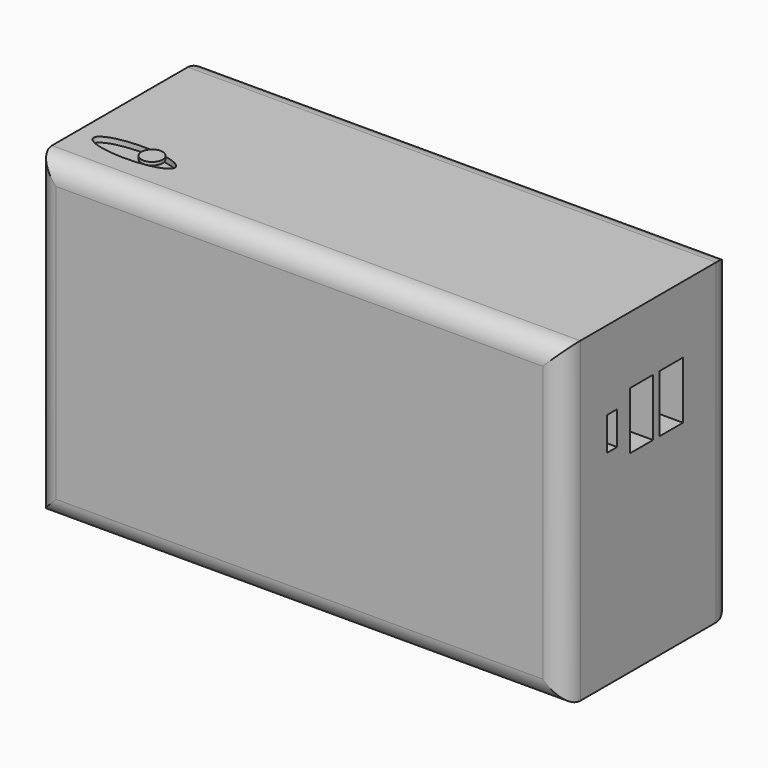
from build123d import *

# Parameters (mm, degrees)
F0_W      = 127
F0_H      = 76.2
F1_DEPTH  = 50.8
F2_R      = 5
F3_W      = 7
F3_H      = 13.8
F4_DEPTH  = 16.4
F5_W      = 7
F5_H      = 13.8
F6_DEPTH  = 16.4
F7_W      = 3
F7_H      = 8
F8_DEPTH  = 14.4
F9_R      = 7.752085
F10_DEPTH = 15.5
F11_R     = 3.646977
F12_DEPTH = 2.032
F14_DEPTH = 1.27
F15_R     = 2.545148
F16_DEPTH = 0.762
F18_DEPTH = 3.302
F19_W     = 34.536691
F19_H     = 3.45367
F20_DEPTH = 16.4
F21_W     = 10.936618
F21_H     = 2.302445
F21_W_2   = 11.224423
F22_DEPTH = 2.794
F23_W     = 24.175685
F23_H     = 3.453668
F24_DEPTH = 1.27


with BuildPart() as f1:
    # F0 (on Front) → F1 (new body)
    with BuildSketch(Plane.XZ):
        Rectangle(F0_W, F0_H)
    extrude(amount=F1_DEPTH)

    # F2
    f2_edges = [f1.edges().sort_by_distance(p)[0] for p in [
        (0, -50.8, -38.1),
        (0, 0, -38.1),
        (63.5, 0, 0),
        (0, 0, 38.1),
        (-63.5, 0, 0),
        (0, -50.8, 38.1),
        (63.5, -50.8, 0),
        (-63.5, -50.8, 0),
    ]]
    fillet(f2_edges, radius=F2_R)

    # F3 (on face) → F4 (cut)
    with BuildSketch(Plane.YZ.offset(63.5)):
        with Locations((-27.439119, 15.102464)):
            Rectangle(F3_W, F3_H)
    extrude(amount=-F4_DEPTH, mode=Mode.SUBTRACT)

    # F5 (on face) → F6 (cut)
    with BuildSketch(Plane.YZ.offset(63.5)):
        with Locations((-18.430447, 15.102464)):
            Rectangle(F5_W, F5_H)
    extrude(amount=-F6_DEPTH, mode=Mode.SUBTRACT)

    # F7 (on face) → F8 (cut)
    with BuildSketch(Plane.YZ.offset(63.5)):
        with Locations((-36.227684, 15.109803)):
            Rectangle(F7_W, F7_H)
    extrude(amount=-F8_DEPTH, mode=Mode.SUBTRACT)

    # F9 (on face) → F10 (cut)
    with BuildSketch(Plane(origin=(-63.5, 0, 0), x_dir=(0, -1, 0), z_dir=(-1, 0, 0))):
        with Locations((35.727076, 26.897665)):
            Circle(F9_R)
        with Locations((35.727076, 26.897665)):
            Circle(F9_R)
    extrude(amount=-F10_DEPTH, mode=Mode.SUBTRACT)

    # F11 (on face) → F12 (join)
    with BuildSketch(Plane(origin=(-48, 0, 0), x_dir=(0, -1, 0), z_dir=(-1, 0, 0))):
        with Locations((35.727076, 26.897665)):
            Circle(F11_R)
    extrude(amount=F12_DEPTH)

    # F13 (on face) → F14 (cut)
    with BuildSketch(Plane.XY.offset(38.1)):
        with BuildLine():
            add(Edge.make_bspline(
                [(-39.842725, -38.383145), (-39.842725, -33.343195), (-54.51994, -35.86317), (-69.197156, -38.383145), (-54.51994, -40.90312), (-39.842725, -43.423094), (-39.842725, -38.383145)],
                knots=[0, 0, 0, 2.094395, 2.094395, 4.18879, 4.18879, 6.283185, 6.283185, 6.283185], degree=2, weights=[1, 0.5, 1, 0.5, 1, 0.5, 1]))
        make_face()
    extrude(amount=-F14_DEPTH, mode=Mode.SUBTRACT)

    # F17 (on face) → F18 (join)
    with BuildSketch(Plane(origin=(0, 0, 0), x_dir=(-1, 0, 0), z_dir=(0, 1, 0))):
        with BuildLine():
            add(Edge.make_bspline(
                [(-33.716403, 26.681565), (-33.716403, 33.418071), (-47.175102, 30.049818), (-60.633801, 26.681565), (-47.175102, 23.313312), (-33.716403, 19.945059), (-33.716403, 26.681565)],
                knots=[0, 0, 0, 2.094395, 2.094395, 4.18879, 4.18879, 6.283185, 6.283185, 6.283185], degree=2, weights=[1, 0.5, 1, 0.5, 1, 0.5, 1]))
        make_face()
    extrude(amount=F18_DEPTH)

    # F19 (on face) → F20 (cut)
    with BuildSketch(Plane(origin=(0, 0, 0), x_dir=(-1, 0, 0), z_dir=(0, 1, 0))):
        with Locations((-12.231744, 28.924479)):
            Rectangle(F19_W, F19_H)
    extrude(amount=-F20_DEPTH, mode=Mode.SUBTRACT)

    # F23 (on face) → F24 (join)
    with BuildSketch(Plane(origin=(0, 0, 0), x_dir=(-1, 0, 0), z_dir=(0, 1, 0))):
        with Locations((-38.422068, 15.397608)):
            Rectangle(F23_W, F23_H)
    extrude(amount=F24_DEPTH)


with BuildPart() as f16:
    # F15 (on face) → F16 (new body)
    with BuildSketch(Plane.XY.offset(38.1)):
        with Locations((-45.329407, -38.422067)):
            Circle(F15_R)
    extrude(amount=F16_DEPTH)


with BuildPart() as f22:
    # F21 (on face) → F22 (new body)
    with BuildSketch(Plane(origin=(0, 0, 0), x_dir=(-1, 0, 0), z_dir=(0, 1, 0))):
        with Locations((-43.602571, -36.407429)):
            Rectangle(F21_W, F21_H)
        with Locations((-26.190323, -36.407429)):
            Rectangle(F21_W_2, F21_H)
    extrude(amount=F22_DEPTH)


solid = Compound([f1.part, f16.part, f22.part])
